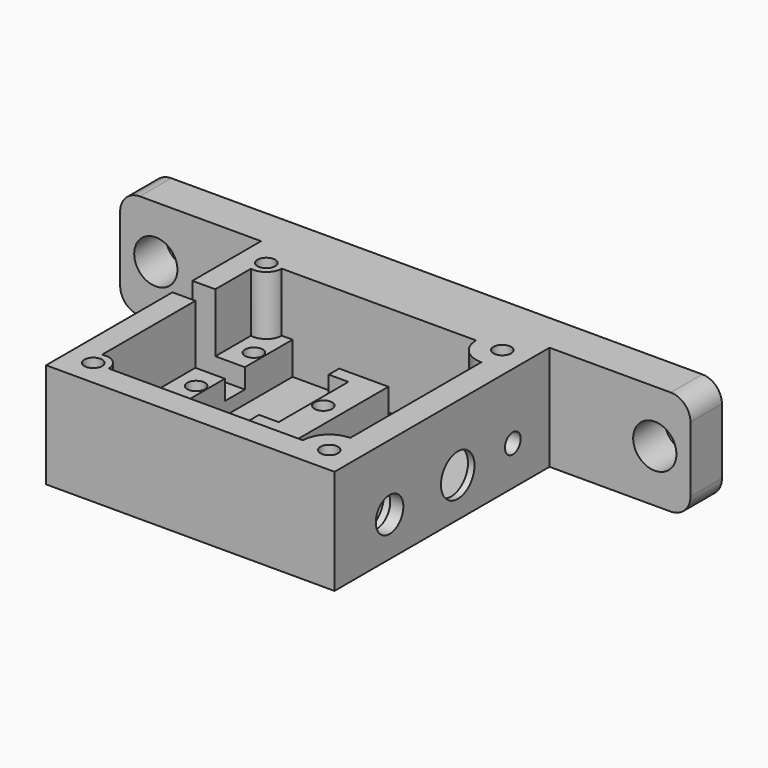
from build123d import *

# Parameters (mm, degrees)
F0_W      = 44
F0_H      = 41
F1_DEPTH  = 16
F2_R      = 1.35
F3_DEPTH  = 14
F6_DEPTH  = 9
F7_DEPTH  = 7
F8_R      = 1.35
F9_DEPTH  = 7.001
F11_R     = 3.2
F11_R_2   = 1.5
F11_R_3   = 2.625
F12_DEPTH = 10
F13_W     = 8
F13_H     = 3.8
F14_DEPTH = 12
F15_W     = 87
F15_H     = 16
F16_DEPTH = 6
F17_R     = 3.3
F18_DEPTH = 47.001
F19_R     = 3
F20_W     = 15
F20_H     = 12
F21_DEPTH = 3
F22_W     = 38
F22_H     = 11
F23_DEPTH = 7
F25_R     = 4
F26_DEPTH = 7


with BuildPart() as f1:
    # F0 (on Top) → F1 (new body)
    with BuildSketch(Plane.XY):
        Rectangle(F0_W, F0_H)
    extrude(amount=F1_DEPTH)

    # F2 (on face) → F3 (cut)
    with BuildSketch(Plane.XY.offset(16)):
        with BuildLine():
            Line((14, 16.5), (-14, 16.5))
            Line((-14, 16.5), (-14, -16.5))
            Line((-14, -16.5), (14, -16.5))
            ThreePointArc((14, -16.5), (15.1715728753, -13.6715728753), (18, -12.5))
            Line((18, -12.5), (18, 12.5))
            ThreePointArc((18, 12.5), (15.1715728753, 13.6715728753), (14, 16.5))
        make_face()
        with Locations((-18, 16.5)):
            Circle(F2_R)
        with Locations((18, 16.5)):
            Circle(F2_R)
        with Locations((-18, -16.5)):
            Circle(F2_R)
        with Locations((18, -16.5)):
            Circle(F2_R)
    extrude(amount=-F3_DEPTH, mode=Mode.SUBTRACT)

    # F5 (on face) → F6 (cut)
    with BuildSketch(Plane.XY.offset(16)):
        with BuildLine():
            ThreePointArc((-15.65, 16.5), (-16.5256357302, 14.6700409841), (-18.5, 14.2038074994))
            Line((-18.5, 14.2038074994), (-18.5, -14.2038074994))
            ThreePointArc((-18.5, -14.2038074994), (-16.5256357302, -14.6700409841), (-15.65, -16.5))
            Line((-15.65, -16.5), (-14, -16.5))
            Line((-14, -16.5), (-14, 16.5))
            Line((-14, 16.5), (-15.65, 16.5))
        make_face()
    extrude(amount=-F6_DEPTH, mode=Mode.SUBTRACT)

    # F4 (on Top) → F7 (join)
    with BuildSketch(Plane.XY):
        Polygon((-5, -1.15), (-5, -3.15), (2.5, -3.15), (2.5, 14.15), (-5, 14.15), (-5, 12.15), (-2, 12.15), (-2, -1.15), align=None)
    extrude(amount=F7_DEPTH)

    # F8 (on face) → F9 (cut, through all)
    with BuildSketch(Plane.XY.offset(7)):
        with Locations((-0.5, 5.5)):
            Circle(F8_R)
        with Locations((-15.5, 11)):
            Circle(F8_R)
        with Locations((-15.5, 0)):
            Circle(F8_R)
    extrude(amount=-F9_DEPTH, mode=Mode.SUBTRACT)

    # F11 (on face) → F12 (cut)
    with BuildSketch(Plane.YZ.offset(22)):
        with Locations((3, 6)):
            Circle(F11_R)
        with Locations((13.5, 6)):
            Circle(F11_R_2)
        with Locations((-10, 6)):
            Circle(F11_R_3)
    extrude(amount=-F12_DEPTH, mode=Mode.SUBTRACT)

    # F13 (on face) → F14 (cut)
    with BuildSketch(Plane.XY.offset(16)):
        with Locations((-18, 5.5)):
            Rectangle(F13_W, F13_H)
    extrude(amount=-F14_DEPTH, mode=Mode.SUBTRACT)

    # F15 (on face) → F16 (join)
    with BuildSketch(Plane(origin=(0, 20.5, 0), x_dir=(-1, 0, 0), z_dir=(0, 1, 0))):
        with Locations((0, 8)):
            Rectangle(F15_W, F15_H)
    extrude(amount=F16_DEPTH)

    # F17 (on face) → F18 (cut, through all)
    with BuildSketch(Plane(origin=(0, 26.5, 0), x_dir=(-1, 0, 0), z_dir=(0, 1, 0))):
        with Locations((38.06, 8)):
            Circle(F17_R)
        with Locations((-38.06, 8)):
            Circle(F17_R)
    extrude(amount=-F18_DEPTH, mode=Mode.SUBTRACT)

    # F19
    f19_edges = [f1.edges().sort_by_distance(p)[0] for p in [
        (43.5, 23.5, 16),
        (43.5, 23.5, 0),
        (-43.5, 23.5, 0),
        (-43.5, 23.5, 16),
    ]]
    fillet(f19_edges, radius=F19_R)

    # F20 (on face) → F21 (cut)
    with BuildSketch(Plane(origin=(18, 0, 0), x_dir=(0, -1, 0), z_dir=(-1, 0, 0))):
        with Locations((-3, 8)):
            Rectangle(F20_W, F20_H)
    extrude(amount=-F21_DEPTH, mode=Mode.SUBTRACT)

    # F22 (on face) → F23 (cut)
    with BuildSketch(Plane(origin=(0, 26.5, 0), x_dir=(-1, 0, 0), z_dir=(0, 1, 0))):
        with Locations((0, 8)):
            Rectangle(F22_W, F22_H)
    extrude(amount=-F23_DEPTH, mode=Mode.SUBTRACT)

    # F25 (on offset) → F26 (cut)
    with BuildSketch(Plane(origin=(13, 0, 0), x_dir=(0, -1, 0), z_dir=(-1, 0, 0))):
        with Locations((10, 6)):
            Circle(F25_R)
    extrude(amount=-F26_DEPTH, mode=Mode.SUBTRACT)


solid = f1.part
